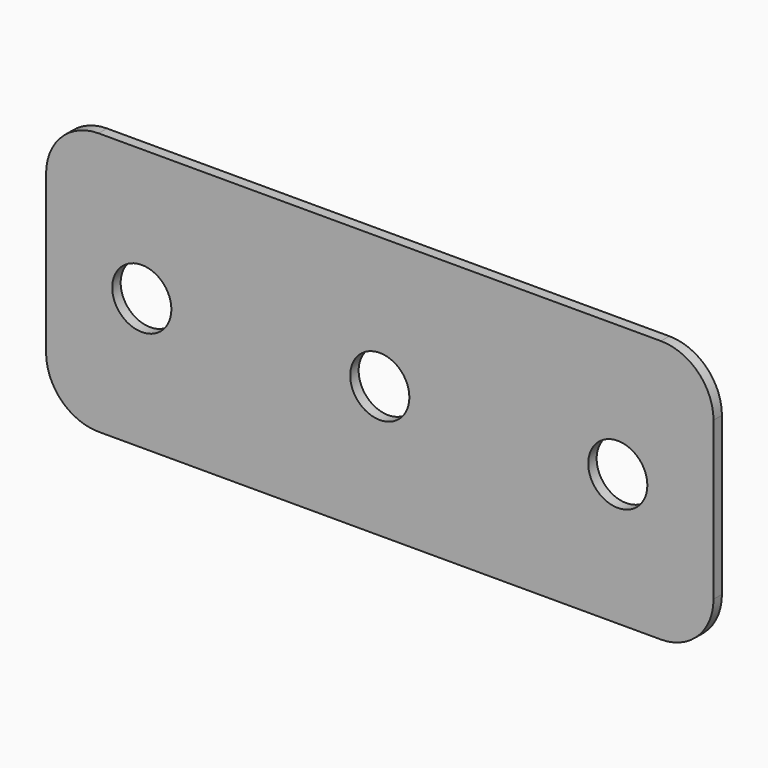
from build123d import *

# Parameters (mm, degrees)
F0_W     = 322.58
F0_H     = 127
F1_DEPTH = 5.08
F2_R     = 25.4
F3_R     = 14.2875
F4_DEPTH = 25.4


with BuildPart() as f1:
    # F0 (on Front) → F1 (new body)
    with BuildSketch(Plane.XZ):
        with Locations((-60.191011, 7.567608)):
            Rectangle(F0_W, F0_H)
    extrude(amount=F1_DEPTH)

    # F2
    f2_edges = [f1.edges().sort_by_distance(p)[0] for p in [
        (101.098989, -2.54, 71.067608),
        (101.098989, -2.54, -55.932392),
        (-221.481011, -2.54, 71.067608),
        (-221.481011, -2.54, -55.932392),
    ]]
    fillet(f2_edges, radius=F2_R)

    # F3 (on face) → F4 (cut)
    with BuildSketch(Plane.XZ.offset(5.08)):
        with Locations((-60.191011, 7.567608)):
            Circle(F3_R)
        with Locations((54.832889, 7.567608)):
            Circle(F3_R)
        with Locations((-175.214911, 7.567608)):
            Circle(F3_R)
    extrude(amount=-F4_DEPTH, mode=Mode.SUBTRACT)


solid = f1.part
